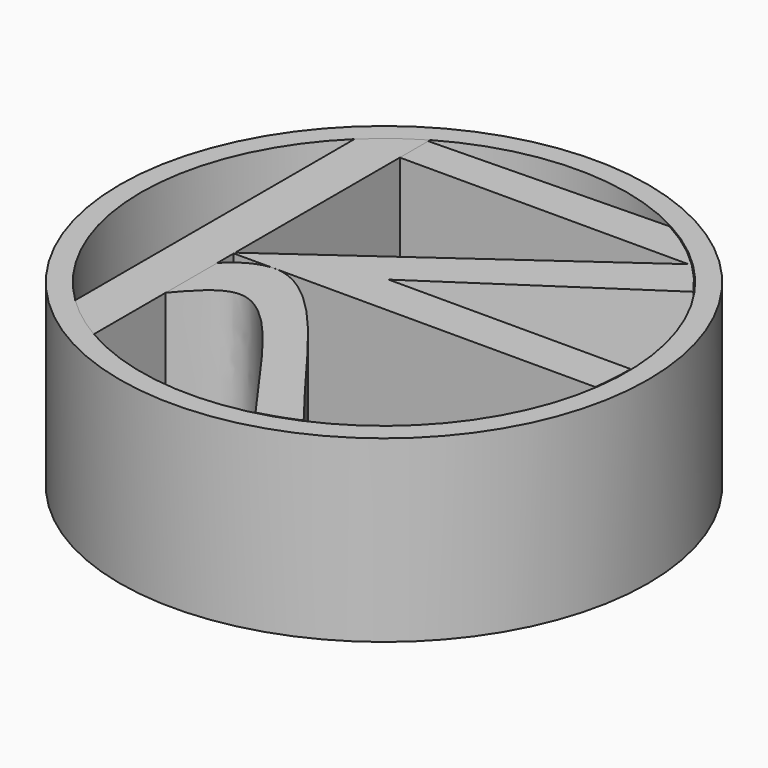
from build123d import *

# Parameters (mm, degrees)
F1_DEPTH = 25.4
F2_R     = 37.4178761055
F3_DEPTH = 25.4
F4_DEPTH = 25.4
F5_DEPTH = 25.4


with BuildPart() as f1:
    # F0 (on Top) → F1 (new body)
    with BuildSketch(Plane.XY):
        with BuildLine():
            ThreePointArc((33.9287684393, -5.0087413818), (34.2044316104, -2.511110561), (34.2964840478, 0))
            ThreePointArc((34.2964840478, 0), (34.294180077, 0.3975309867), (34.2872684742, 0.7950085626))
            Line((34.2872684742, 0.7950085626), (0, 0.7950085626))
            Line((0, 0.7950085626), (28.1605856089, 19.5762671672))
            ThreePointArc((28.1605856089, 19.5762671672), (22.8512903751, 25.5747403943), (16.2953421659, 30.1779827314))
            Line((16.2953421659, 30.1779827314), (-17.6180669408, 29.4253723053))
            Line((-17.6180669408, 29.4253723053), (-17.6180669408, 24.4052867492))
            Line((-17.6180669408, 24.4052867492), (23.6015916839, 24.4052867492))
            Line((23.6015916839, 24.4052867492), (-17.6180669408, -5.0087413818))
            Line((-17.6180669408, -5.0087413818), (-11.8098608539, -5.0087413818))
            add(Edge.make_bspline(
                [(-11.0894667073, -5.0087413818), (-11.3318705064, -4.9925762286), (-11.5722884577, -4.9932489761), (-11.8098608539, -5.0087413818)],
                knots=[0.5915948405, 0.5915948405, 0.5915948405, 0.5915948405, 0.6124411079, 0.6124411079, 0.6124411079, 0.6124411079], degree=3))
            Line((-11.0894667073, -5.0087413818), (33.9287684393, -5.0087413818))
        make_face()
    extrude(amount=F1_DEPTH)


with BuildPart() as f1b:
    # F0 (on Top) → F1, piece 2 (new body)
    with BuildSketch(Plane.XY):
        with BuildLine():
            ThreePointArc((8.4011441477, -33.2516104129), (11.1152325274, -32.4453451808), (13.7535686729, -31.4179593036))
            add(Edge.make_bspline(
                [(13.7535686729, -31.4179593036), (4.2681861669, -19.4868780673), (-4.2103053415, -5.4674911927), (-11.0894667073, -5.0087413818)],
                knots=[0, 0, 0, 0, 0.5915948405, 0.5915948405, 0.5915948405, 0.5915948405], degree=3))
            Line((-11.0894667073, -5.0087413818), (-11.8098608539, -5.0087413818))
            add(Edge.make_bspline(
                [(-11.8098608539, -5.0087413818), (-14.612146447, -5.191482078), (-17.0185189899, -7.4361390007), (-17.6180669408, -8.4304659816)],
                knots=[0.6124411079, 0.6124411079, 0.6124411079, 0.6124411079, 0.8583332887, 0.8583332887, 0.8583332887, 0.8583332887], degree=3))
            Line((-17.6180669408, -8.4304659816), (-17.6180669408, -10.5096240812))
            Line((-17.6180669408, -10.5096240812), (-17.6180669408, -17.46085981))
            add(Edge.make_bspline(
                [(8.4011441477, -33.2516104129), (0, -21.5503783797), (-9.0143397435, -7.4555404019), (-15.2237471193, -14.6350739524), (-17.6180669408, -17.46085981)],
                knots=[0, 0, 0, 0, 0.6399382639, 1, 1, 1, 1], degree=3))
        make_face()
    extrude(amount=F1_DEPTH)


with BuildPart() as f3:
    # F2 (on Top) → F3 (new body)
    with BuildSketch(Plane.XY):
        Circle(F2_R)
        with BuildLine():
            ThreePointArc((-17.2823793981, 29.7797877568), (17.1822744509, 29.837658105), (34.4313287065, 0))
            ThreePointArc((34.4313287065, 0), (17.1822744509, -29.837658105), (-17.2823793981, -29.7797877568))
            ThreePointArc((-17.2823793981, -29.7797877568), (-20.7774401757, -27.4556802182), (-23.9637455276, -24.7235777504))
            ThreePointArc((-23.9637455276, -24.7235777504), (-34.4313287065, 0), (-23.9637455276, 24.7235777504))
            ThreePointArc((-23.9637455276, 24.7235777504), (-20.7774401757, 27.4556802182), (-17.2823793981, 29.7797877568))
        make_face(mode=Mode.SUBTRACT)
    extrude(amount=F3_DEPTH)

    # F2 (on Top) → F4 (join)
    with BuildSketch(Plane.XY):
        Circle(F2_R)
        with BuildLine():
            ThreePointArc((-17.2823793981, 29.7797877568), (17.1822744509, 29.837658105), (34.4313287065, 0))
            ThreePointArc((34.4313287065, 0), (17.1822744509, -29.837658105), (-17.2823793981, -29.7797877568))
            ThreePointArc((-17.2823793981, -29.7797877568), (-20.7774401757, -27.4556802182), (-23.9637455276, -24.7235777504))
            ThreePointArc((-23.9637455276, -24.7235777504), (-34.4313287065, 0), (-23.9637455276, 24.7235777504))
            ThreePointArc((-23.9637455276, 24.7235777504), (-20.7774401757, 27.4556802182), (-17.2823793981, 29.7797877568))
        make_face(mode=Mode.SUBTRACT)
    extrude(amount=F4_DEPTH)


with BuildPart() as f5:
    # F2 (on Top) → F5 (new body)
    with BuildSketch(Plane.XY):
        with BuildLine():
            Line((-17.2823793981, -29.7797877568), (-17.2823793981, 29.7797877568))
            ThreePointArc((-17.2823793981, 29.7797877568), (-20.7774401757, 27.4556802182), (-23.9637455276, 24.7235777504))
            Line((-23.9637455276, 24.7235777504), (-23.9637455276, -24.7235777504))
            ThreePointArc((-23.9637455276, -24.7235777504), (-20.7774401757, -27.4556802182), (-17.2823793981, -29.7797877568))
        make_face()
    extrude(amount=F5_DEPTH)


solid = Compound([f1.part, f1b.part, f3.part, f5.part])
